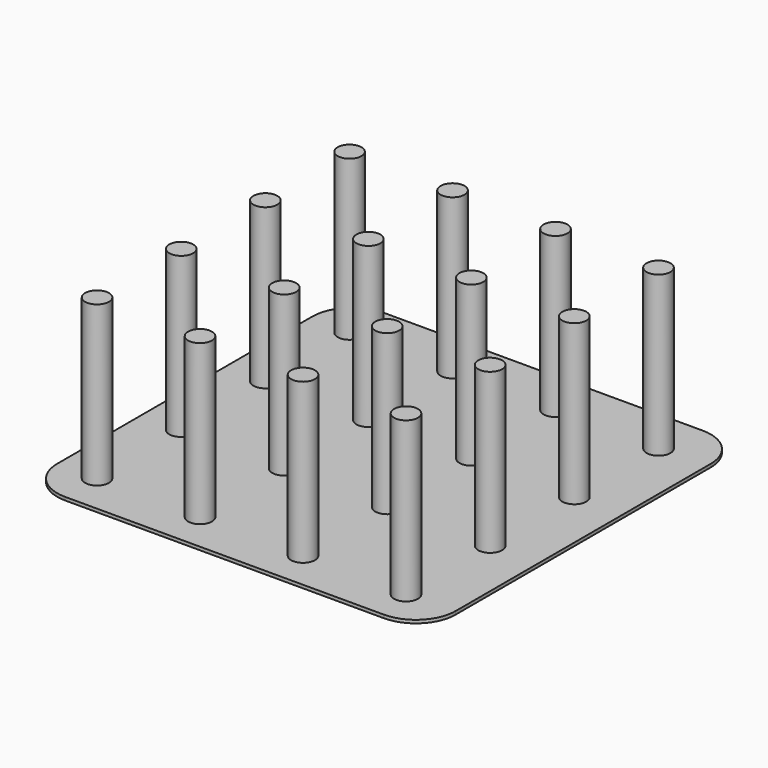
from build123d import *

# Parameters (mm, degrees)
F1_DEPTH = 0.4
F2_R     = 1.5
F3_DEPTH = 20


with BuildPart() as f1:
    # F0 (on Top) → F1 (new body)
    with BuildSketch(Plane.XY):
        with BuildLine():
            ThreePointArc((-25, -20), (-23.535534, -23.535534), (-20, -25))
            Line((-20, -25), (20, -25))
            ThreePointArc((20, -25), (23.535534, -23.535534), (25, -20))
            Line((25, -20), (25, 20))
            ThreePointArc((25, 20), (23.535534, 23.535534), (20, 25))
            Line((20, 25), (-20, 25))
            ThreePointArc((-20, 25), (-23.535534, 23.535534), (-25, 20))
            Line((-25, 20), (-25, -20))
        make_face()
    extrude(amount=F1_DEPTH)

    # F2 (on face) → F3 (join)
    with BuildSketch(Plane.XY.offset(0.4)):
        with Locations((-20, -20)):
            Circle(F2_R)
        with Locations((-20, -6.8)):
            Circle(F2_R)
        with Locations((-20, 6.4)):
            Circle(F2_R)
        with Locations((-20, 19.6)):
            Circle(F2_R)
        with Locations((-7, -20.1)):
            Circle(F2_R)
        with Locations((-7, -6.9)):
            Circle(F2_R)
        with Locations((-7, 6.3)):
            Circle(F2_R)
        with Locations((-7, 19.5)):
            Circle(F2_R)
        with Locations((6, -20.2)):
            Circle(F2_R)
        with Locations((6, -7)):
            Circle(F2_R)
        with Locations((6, 6.2)):
            Circle(F2_R)
        with Locations((6, 19.4)):
            Circle(F2_R)
        with Locations((19, -20.3)):
            Circle(F2_R)
        with Locations((19, -7.1)):
            Circle(F2_R)
        with Locations((19, 6.1)):
            Circle(F2_R)
        with Locations((19, 19.3)):
            Circle(F2_R)
    extrude(amount=F3_DEPTH)


solid = f1.part
